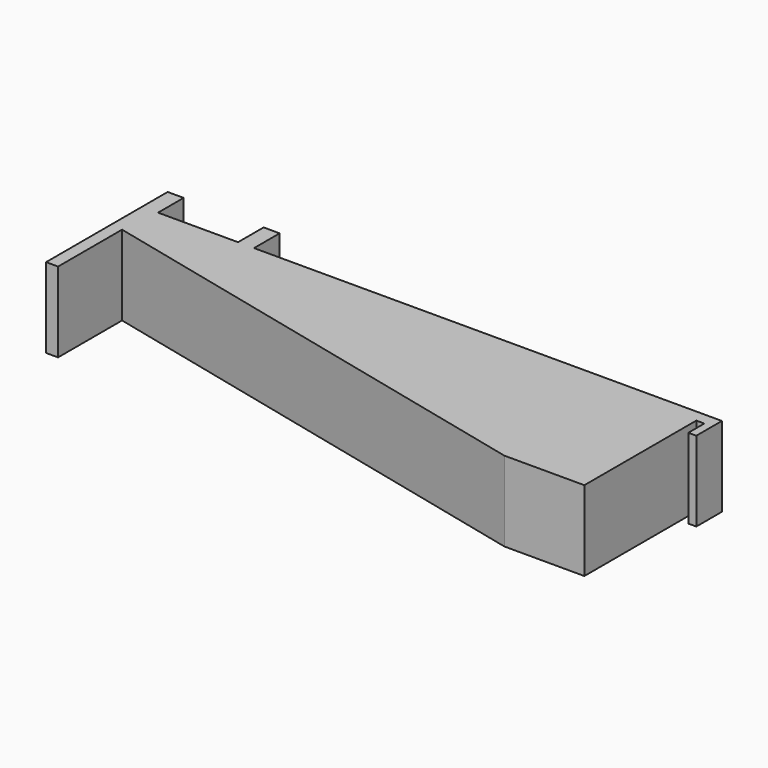
from build123d import *

# Parameters (mm, degrees)
F0_W     = 4
F0_H     = 8
F1_DEPTH = 20


with BuildPart() as f1:
    # F0 (on Top) → F1 (new body)
    with BuildSketch(Plane.XY):
        Polygon((-20, -35), (0, -35), (0, 0), (2, 0), (2, -5), (4, -5), (4, 3), (-113, 3), (-117, 3), (-137, 3), (-141, 3), (-141, -27), (-138, -27), (-138, -7), align=None)
        with Locations((-139, 7)):
            Rectangle(F0_W, F0_H)
        with Locations((-115, 7)):
            Rectangle(F0_W, F0_H)
    extrude(amount=F1_DEPTH)


solid = f1.part
